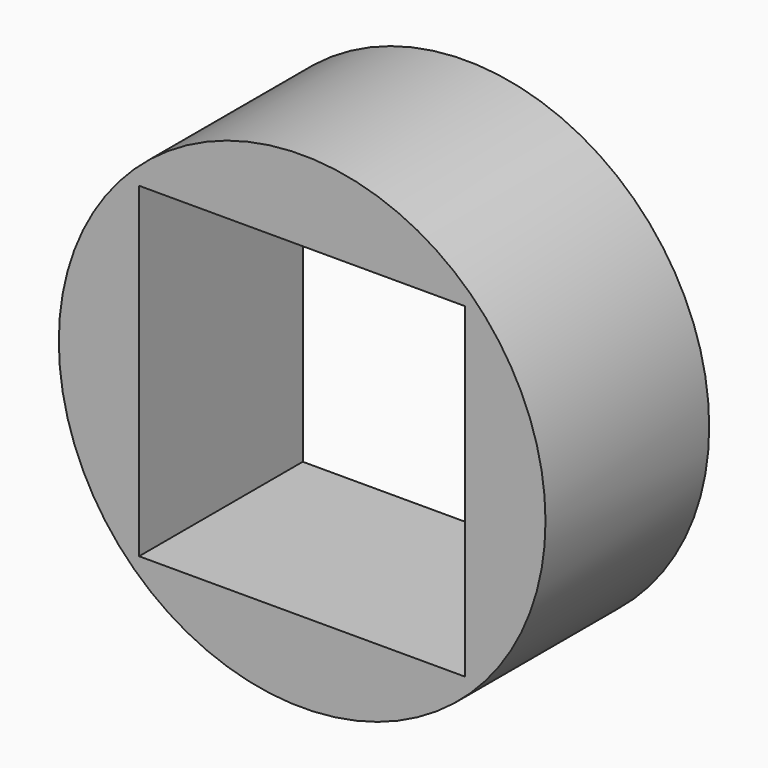
from build123d import *

# Parameters (mm, degrees)
F0_R     = 9.55
F0_W     = 12.8
F0_H     = 12.8
F1_DEPTH = 8.03


with BuildPart() as f1:
    # F0 (on Front) → F1 (new body)
    with BuildSketch(Plane.XZ):
        Circle(F0_R)
        Rectangle(F0_W, F0_H, mode=Mode.SUBTRACT)
    extrude(amount=F1_DEPTH)


solid = f1.part
